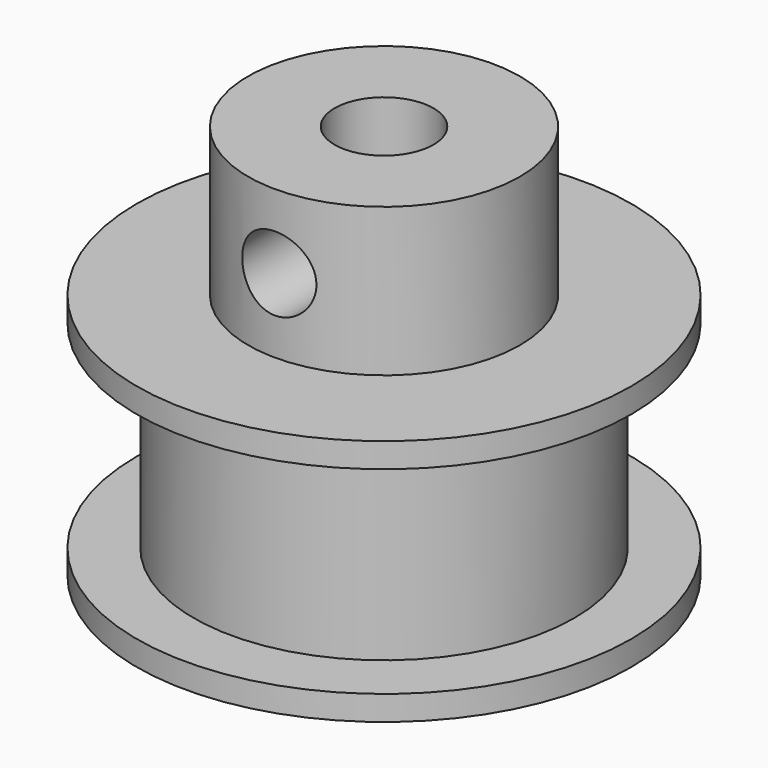
from build123d import *

# Parameters (mm, degrees)
F0_R      = 7.7
F1_DEPTH  = 4
F2_R      = 10
F2_R_2    = 7.7
F3_DEPTH  = 1
F4_R      = 10
F4_R_2    = 7.7
F5_DEPTH  = 1
F6_R      = 5.5
F7_DEPTH  = 6
F9_D      = 4
F10_R     = 1.5
F11_DEPTH = 25


with BuildPart() as f1:
    # F0 (on Top) → F1 (new body, symmetric)
    with BuildSketch(Plane.XY):
        Circle(F0_R)
    extrude(amount=F1_DEPTH, both=True)

    # F2 (on face) → F3 (join)
    with BuildSketch(Plane.XY.offset(4)):
        Circle(F2_R)
        Circle(F2_R_2, mode=Mode.SUBTRACT)
        Circle(F2_R_2)
    extrude(amount=F3_DEPTH)

    # F4 (on face) → F5 (join)
    with BuildSketch(Plane(origin=(0, 0, -4), x_dir=(1, 0, 0), z_dir=(0, 0, -1))):
        Circle(F4_R)
        Circle(F4_R_2, mode=Mode.SUBTRACT)
        Circle(F4_R_2)
    extrude(amount=F5_DEPTH)

    # F6 (on face) → F7 (join)
    with BuildSketch(Plane.XY.offset(5)):
        Circle(F6_R)
    extrude(amount=F7_DEPTH)

    # F9 (through all)
    with Locations(Plane.XY.offset(11)):
        with Locations((0, 0)):
            Hole(F9_D / 2)

    # F10 (on Front) → F11 (cut)
    with BuildSketch(Plane.XZ):
        with Locations((0, 8)):
            Circle(F10_R)
    extrude(amount=F11_DEPTH, mode=Mode.SUBTRACT)


solid = f1.part
